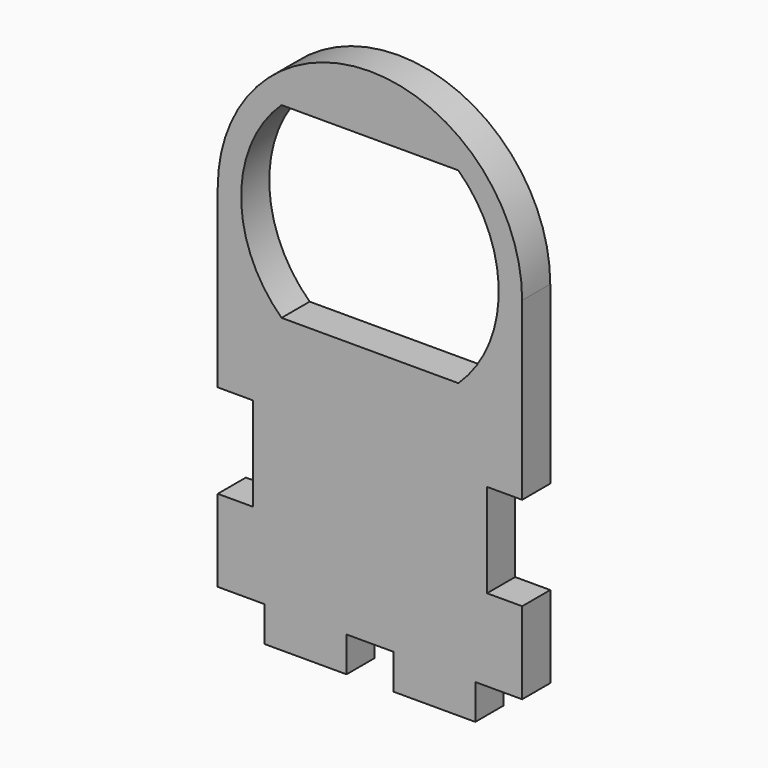
from build123d import *

# Parameters (mm, degrees)
F1_DEPTH = 3


with BuildPart() as f1:
    # F0 (on Front) → F1 (new body)
    with BuildSketch(Plane.XZ):
        with BuildLine():
            Line((13, 15), (13, 30))
            ThreePointArc((13, 30), (0, 43), (-13, 30))
            Line((-13, 30), (-13, 15))
            Line((-13, 15), (-10, 15))
            Line((-10, 15), (-10, 7))
            Line((-10, 7), (-13, 7))
            Line((-13, 7), (-13, 0))
            Line((-13, 0), (-9, 0))
            Line((-9, 0), (-9, -3))
            Line((-9, -3), (-2, -3))
            Line((-2, -3), (-2, 0))
            Line((-2, 0), (0, 0))
            Line((0, 0), (2, 0))
            Line((2, 0), (2, -3))
            Line((2, -3), (9, -3))
            Line((9, -3), (9, 0))
            Line((9, 0), (13, 0))
            Line((13, 0), (13, 7))
            Line((13, 7), (10, 7))
            Line((10, 7), (10, 15))
            Line((10, 15), (13, 15))
        make_face()
        with BuildLine():
            ThreePointArc((-7.549834, 22), (-11, 30), (-7.549834, 38))
            Line((-7.549834, 38), (7.549834, 38))
            ThreePointArc((7.549834, 38), (11, 30), (7.549834, 22))
            Line((7.549834, 22), (-7.549834, 22))
        make_face(mode=Mode.SUBTRACT)
    extrude(amount=F1_DEPTH)


solid = f1.part
